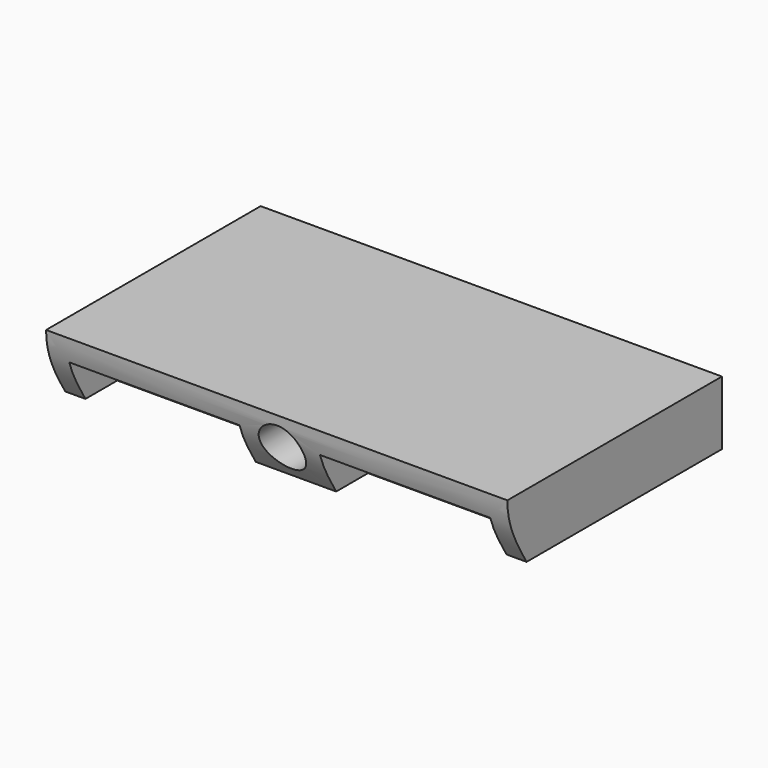
from build123d import *

# Parameters (mm, degrees)
F0_W     = 68.8
F0_H     = 9.54
F0_W_2   = 25.4
F0_H_2   = 2.54
F0_R     = 3.3655
F1_DEPTH = 40
F2_W     = 25.4
F2_H     = 9.525
F3_DEPTH = 3.5
F6_DEPTH = 68.8
F8_DEPTH = 7.62


with BuildPart() as f1:
    # F0 (on Front) → F1 (new body)
    with BuildSketch(Plane.XZ):
        with Locations((31.4, 1.27)):
            Rectangle(F0_W, F0_H)
        with Locations((12.7, 1.27)):
            Rectangle(F0_W_2, F0_H_2, mode=Mode.SUBTRACT)
        with Locations((31.4, 1.27)):
            Circle(F0_R, mode=Mode.SUBTRACT)
        with Locations((50.1, 1.27)):
            Rectangle(F0_W_2, F0_H_2, mode=Mode.SUBTRACT)
    extrude(amount=F1_DEPTH)

    # F2 (on face) → F3 (cut, through all)
    with BuildSketch(Plane(origin=(0, 0, -3.5), x_dir=(1, 0, 0), z_dir=(0, 0, -1))):
        with Locations((12.7, 35.2375)):
            Rectangle(F2_W, F2_H)
        with Locations((50.1, 35.2375)):
            Rectangle(F2_W, F2_H)
    extrude(amount=-F3_DEPTH, mode=Mode.SUBTRACT)

    # F5 (on face) → F6 (cut, through all)
    with BuildSketch(Plane.YZ.offset(65.8)):
        with BuildLine():
            Line((-40, -3.5), (-36.412868955, -3.5))
            add(Edge.make_bspline(
                [(-40, 6.04), (-40, 2.5308377617), (-38.3018730084, -0.3928871964), (-36.412868955, -3.5)],
                knots=[0, 0, 0, 0, 10.1921101414, 10.1921101414, 10.1921101414, 10.1921101414], degree=3))
            Line((-40, 6.04), (-40, -3.5))
        make_face()
    extrude(amount=-F6_DEPTH, mode=Mode.SUBTRACT)

    # F7 (on face) → F8 (join)
    with BuildSketch(Plane(origin=(0, 0, 0), x_dir=(-1, 0, 0), z_dir=(0, 1, 0))):
        with BuildLine():
            ThreePointArc((-37.4, 1.905), (-43.6789598779, 0.4788991858), (-50.1, 0))
            Line((-50.1, 0), (-37.4, 0))
            Line((-37.4, 0), (-37.4, 1.905))
        make_face()
        with BuildLine():
            ThreePointArc((-50.1, 0), (-56.5210401221, 0.4788991858), (-62.8, 1.905))
            Line((-62.8, 1.905), (-62.8, 0))
            Line((-62.8, 0), (-50.1, 0))
        make_face()
        with BuildLine():
            Line((-38.8520723687, 2.54), (-61.3479276313, 2.54))
            ThreePointArc((-61.3479276313, 2.54), (-50.1, 1.016), (-38.8520723687, 2.54))
        make_face()
        with BuildLine():
            ThreePointArc((0, 1.905), (-6.2789599942, 0.4788991684), (-12.7000002352, 0))
            Line((-12.7000002352, 0), (0, 0))
            Line((0, 0), (0, 1.905))
        make_face()
        with BuildLine():
            Line((-25.4, 1.905), (-25.4, 0))
            Line((-25.4, 0), (-12.7000002352, 0))
            ThreePointArc((-12.7000002352, 0), (-19.1210402384, 0.4788992032), (-25.4, 1.905))
        make_face()
        with BuildLine():
            ThreePointArc((-23.9479276313, 2.54), (-12.7, 1.016), (-1.4520723687, 2.54))
            Line((-1.4520723687, 2.54), (-23.9479276313, 2.54))
        make_face()
    extrude(amount=-F8_DEPTH)


solid = f1.part
